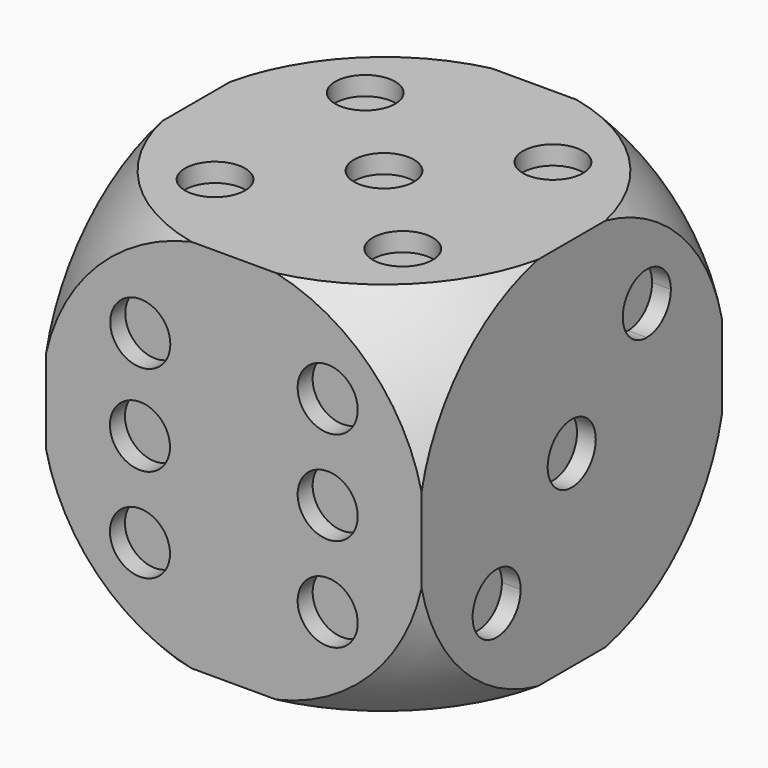
from build123d import *

# Parameters (mm, degrees)
F0_W      = 127
F0_H      = 127
F2_DEPTH  = 127
F6_R      = 10.16
F7_DEPTH  = 6.35
F8_R      = 10.16
F9_DEPTH  = 6.35
F10_R     = 10.16
F11_DEPTH = 6.35
F12_R     = 10.16
F13_DEPTH = 6.35
F14_R     = 10.16
F15_DEPTH = 6.35
F16_R     = 10.16
F17_DEPTH = 6.35


with BuildPart() as f2:
    # F0 (on Top) → F2 (new body)
    with BuildSketch(Plane.XY):
        Rectangle(F0_W, F0_H)
    extrude(amount=F2_DEPTH)


with BuildPart() as f4:
    # F3 (on offset) → F4 (revolve)
    with BuildSketch(Plane.XY.offset(63.5)):
        with BuildLine():
            Line((0, -90.937567), (0, 90.937567))
            ThreePointArc((0, 90.937567), (-90.937567, 0), (0, -90.937567))
        make_face()
    revolve(axis=Axis((0, 0, 63.5), (0, -1, 0)))

    # F5: intersect F2
    add(f2.part, mode=Mode.INTERSECT)

    # F6 (on face) → F7 (cut)
    with BuildSketch(Plane(origin=(0, 63.5, 0), x_dir=(-1, 0, 0), z_dir=(0, 1, 0))):
        with Locations((0, 63.5)):
            Circle(F6_R)
    extrude(amount=-F7_DEPTH, mode=Mode.SUBTRACT)

    # F8 (on face) → F9 (cut)
    with BuildSketch(Plane.XZ.offset(63.5)):
        with Locations((31.75, 95.25)):
            Circle(F8_R)
        with Locations((31.75, 63.5)):
            Circle(F8_R)
        with Locations((31.75, 31.75)):
            Circle(F8_R)
        with Locations((-31.75, 31.75)):
            Circle(F8_R)
        with Locations((-31.75, 63.5)):
            Circle(F8_R)
        with Locations((-31.640418, 94.16756)):
            Circle(F8_R)
    extrude(amount=-F9_DEPTH, mode=Mode.SUBTRACT)

    # F10 (on face) → F11 (cut)
    with BuildSketch(Plane.XY.offset(127)):
        Circle(F10_R)
        with Locations((31.75, 31.75)):
            Circle(F10_R)
        with Locations((31.75, -31.75)):
            Circle(F10_R)
        with Locations((-31.75, -31.75)):
            Circle(F10_R)
        with Locations((-31.75, 31.75)):
            Circle(F10_R)
    extrude(amount=-F11_DEPTH, mode=Mode.SUBTRACT)

    # F12 (on face) → F13 (cut)
    with BuildSketch(Plane(origin=(0, 0, 0), x_dir=(1, 0, 0), z_dir=(0, 0, -1))):
        with Locations((31.75, 31.75)):
            Circle(F12_R)
        with Locations((-31.75, -31.75)):
            Circle(F12_R)
    extrude(amount=-F13_DEPTH, mode=Mode.SUBTRACT)

    # F14 (on face) → F15 (cut)
    with BuildSketch(Plane.YZ.offset(63.5)):
        with Locations((0, 63.5)):
            Circle(F14_R)
        with BuildLine():
            ThreePointArc((31.75, 85.09), (38.934205, 88.065795), (41.91, 95.25))
            ThreePointArc((41.91, 95.25), (24.565795, 102.434205), (31.75, 85.09))
        make_face()
        with BuildLine():
            ThreePointArc((-31.75, 41.91), (-38.934205, 24.565795), (-21.59, 31.75))
            ThreePointArc((-21.59, 31.75), (-24.565795, 38.934205), (-31.75, 41.91))
        make_face()
    extrude(amount=-F15_DEPTH, mode=Mode.SUBTRACT)

    # F16 (on face) → F17 (cut)
    with BuildSketch(Plane(origin=(-63.5, 0, 0), x_dir=(0, -1, 0), z_dir=(-1, 0, 0))):
        with Locations((-31.75, 95.25)):
            Circle(F16_R)
        with Locations((-31.75, 31.75)):
            Circle(F16_R)
        with Locations((31.75, 31.75)):
            Circle(F16_R)
        with Locations((31.75, 95.25)):
            Circle(F16_R)
    extrude(amount=-F17_DEPTH, mode=Mode.SUBTRACT)


solid = f4.part
